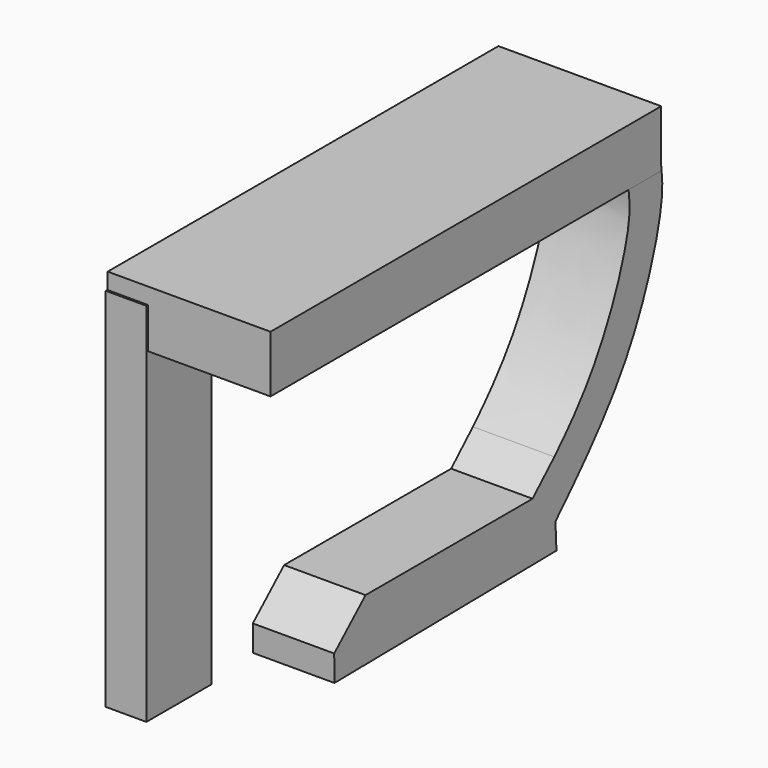
from build123d import *

# Parameters (mm, degrees)
F0_W          = 12.7
F0_H          = 57.15
F1_DEPTH      = 6.35
F3_W          = 25.4
F3_H          = 76.2
F4_DEPTH      = 6.35
F4_DEPTH_BACK = 2.54
F7_DEPTH      = 12.7


with BuildPart() as f1:
    # F0 (on Right) → F1 (new body)
    with BuildSketch(Plane.YZ):
        Rectangle(F0_W, F0_H)
    extrude(amount=-F1_DEPTH)

    # F3 (on offset) → F4 (join, two sides)
    with BuildSketch(Plane.XY.offset(28.575)) as f4_sk:
        with Locations((6.4234920739, 32.0478732836)):
            Rectangle(F3_W, F3_H)
    extrude(amount=-F4_DEPTH)
    extrude(f4_sk.sketch, amount=F4_DEPTH_BACK)

    # F6 (on offset) → F7 (join)
    with BuildSketch(Plane.YZ.offset(6.35)):
        with BuildLine():
            add(Edge.make_bspline(
                [(70.2633336186, 22.8392183781), (70.4233882553, 21.3594202626), (70.8861297069, 17.0811066655), (64.7810650809, -1.7378247981), (54.8334581019, -12.2566322998), (49.6061965824, -17.6021996762)],
                knots=[0, 0, 0, 0, 0.1426234456, 0.4123453195, 0.7089617498, 0.7089617498, 0.7089617498, 0.7089617498], degree=3))
            Line((70.2633336186, 22.8392183781), (63.8625249267, 22.2573280334))
            add(Edge.make_bspline(
                [(63.8625249267, 22.2573280334), (64.0412796019, 20.8723429335), (64.5683260106, 16.7888054132), (58.9062733043, 1.7794154409), (51.9438558064, -6.0723920348), (49.3872103067, -8.6279157552)],
                knots=[0, 0, 0, 0, 0.1493923045, 0.440473389, 0.6031634486, 0.6031634486, 0.6031634486, 0.6031634486], degree=3))
            add(Edge.make_bspline(
                [(49.3872103067, -8.6279157552), (47.9749044151, -10.0396019693), (46.5441619109, -11.3720779909), (45.1433620447, -12.6561271027)],
                knots=[0.6031634486, 0.6031634486, 0.6031634486, 0.6031634486, 0.6930343867, 0.6930343867, 0.6930343867, 0.6930343867], degree=3))
            add(Edge.make_bspline(
                [(45.1433620447, -12.6561271027), (44.389197075, -13.3474356064), (42.4890896803, -15.0736774227), (40.6944116755, -16.7399375724), (39.6315032844, -17.7367295919)],
                knots=[0.6930343867, 0.6930343867, 0.6930343867, 0.6930343867, 0.7414192524, 0.8163585632, 0.8163585632, 0.8163585632, 0.8163585632], degree=3))
            Line((39.6315032844, -17.7367295919), (49.6061965824, -17.6021996762))
        make_face()
        with BuildLine():
            Line((49.8050153623, -21.68060241), (49.6061965824, -17.6021996762))
            add(Edge.make_bspline(
                [(49.6061965824, -17.6021996762), (48.2481731115, -18.9909585771), (46.8889847211, -20.3686756001), (45.5289398536, -21.7382743664)],
                knots=[0.7089617498, 0.7089617498, 0.7089617498, 0.7089617498, 0.7860216162, 0.7860216162, 0.7860216162, 0.7860216162], degree=3))
            Line((45.5289398536, -21.7382743664), (49.8050153623, -21.68060241))
        make_face()
        with BuildLine():
            add(Edge.make_bspline(
                [(49.6061965824, -17.6021996762), (48.2481731115, -18.9909585771), (46.8889847211, -20.3686756001), (45.5289398536, -21.7382743664)],
                knots=[0.7089617498, 0.7089617498, 0.7089617498, 0.7089617498, 0.7860216162, 0.7860216162, 0.7860216162, 0.7860216162], degree=3))
            Line((49.6061965824, -17.6021996762), (39.6315032844, -17.7367295919))
            add(Edge.make_bspline(
                [(39.6315032844, -17.7367295919), (38.1330562509, -19.1419683285), (36.6895570101, -20.5159457613), (35.2693948102, -21.8766461126)],
                knots=[0.8163585632, 0.8163585632, 0.8163585632, 0.8163585632, 0.9220050976, 0.9220050976, 0.9220050976, 0.9220050976], degree=3))
            Line((35.2693948102, -21.8766461126), (45.5289398536, -21.7382743664))
        make_face()
        with BuildLine():
            Line((6.4619160257, -18.1840918958), (39.6315032844, -17.7367295919))
            add(Edge.make_bspline(
                [(45.1433620447, -12.6561271027), (44.389197075, -13.3474356064), (42.4890896803, -15.0736774227), (40.6944116755, -16.7399375724), (39.6315032844, -17.7367295919)],
                knots=[0.6930343867, 0.6930343867, 0.6930343867, 0.6930343867, 0.7414192524, 0.8163585632, 0.8163585632, 0.8163585632, 0.8163585632], degree=3))
            Line((45.1433620447, -12.6561271027), (12.5717725605, -12.6561271027))
            Line((12.5717725605, -12.6561271027), (6.4619160257, -18.1840918958))
        make_face()
        with BuildLine():
            add(Edge.make_bspline(
                [(39.6315032844, -17.7367295919), (38.1330562509, -19.1419683285), (36.6895570101, -20.5159457613), (35.2693948102, -21.8766461126)],
                knots=[0.8163585632, 0.8163585632, 0.8163585632, 0.8163585632, 0.9220050976, 0.9220050976, 0.9220050976, 0.9220050976], degree=3))
            Line((39.6315032844, -17.7367295919), (6.4619160257, -18.1840918958))
            Line((6.4619160257, -18.1840918958), (6.5169481003, -22.2644338986))
            Line((6.5169481003, -22.2644338986), (35.2693948102, -21.8766461126))
        make_face()
    extrude(amount=F7_DEPTH)


solid = f1.part
